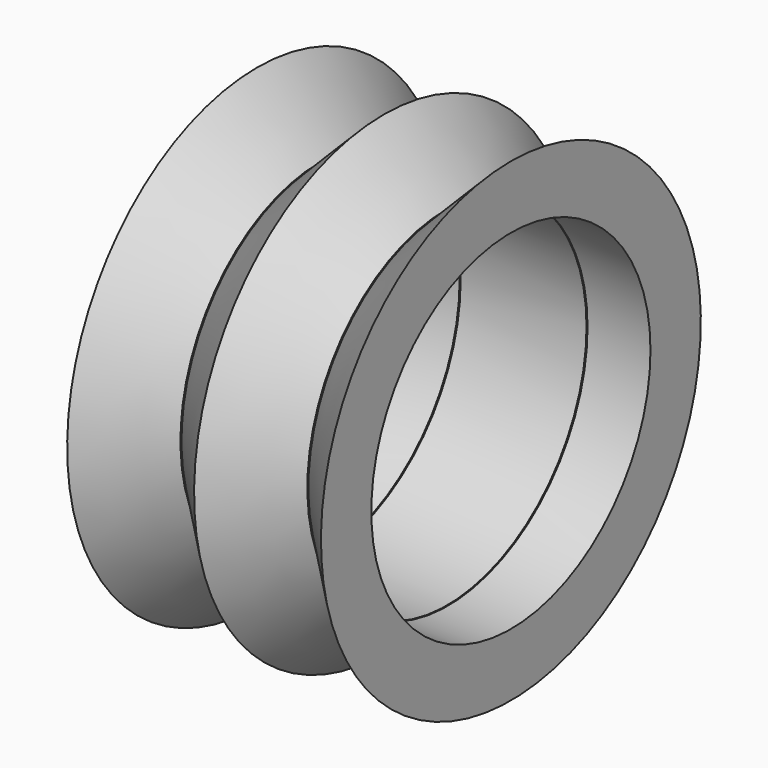
from build123d import *

# Parameters (mm, degrees)
F2_R     = 34.925
F2_R_2   = 12.7
F3_DEPTH = 50.801


with BuildPart() as f1:
    # F0 (on Front) → F1 (revolve)
    with BuildSketch(Plane.XZ):
        Polygon((0, 47.522692), (0, 22.122692), (12.7, 22.122692), (12.7, 34.822692), align=None)
        Polygon((12.7, 34.822692), (12.7, 22.122692), (38.1, 22.122692), (38.1, 34.822692), (25.4, 47.522692), align=None)
        Polygon((38.1, 34.822692), (38.1, 22.122692), (50.8, 22.122692), (50.8, 47.522692), align=None)
    revolve(axis=Axis((52.286177, 0, 0), (1, 0, 0)))

    # F2 (on Right) → F3 (cut, through all)
    with BuildSketch(Plane.YZ):
        Circle(F2_R)
        Circle(F2_R_2, mode=Mode.SUBTRACT)
    extrude(amount=F3_DEPTH, mode=Mode.SUBTRACT)


solid = f1.part
